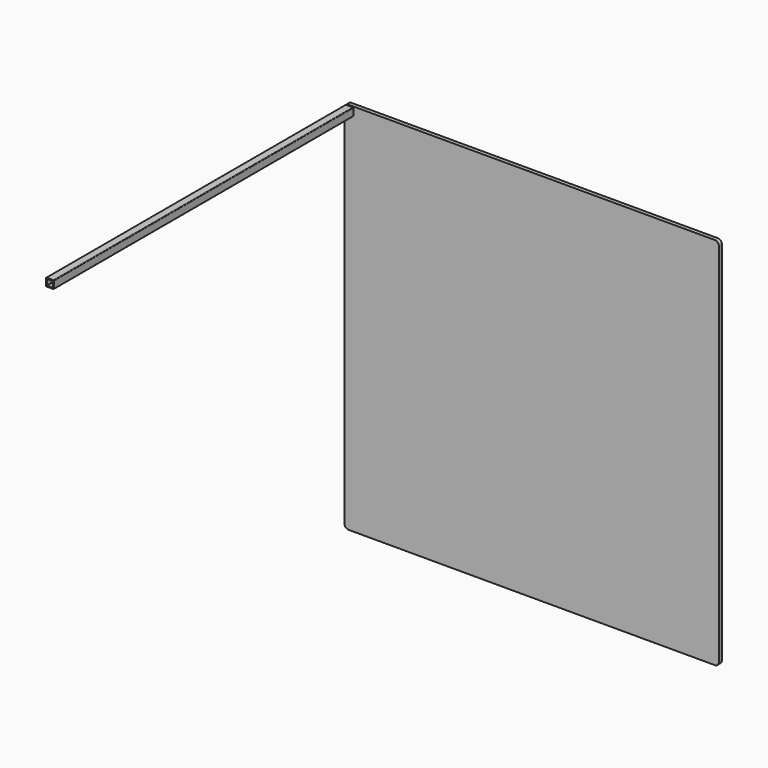
from build123d import *

# Parameters (mm, degrees)
F1_DEPTH = 6.35
F3_DEPTH = 609.6


with BuildPart() as f1:
    # F0 (on Front) → F1 (new body)
    with BuildSketch(Plane.XZ):
        with BuildLine():
            Line((-298.45, -304.8), (298.45, -304.8))
            ThreePointArc((298.45, -304.8), (302.940128, -302.940128), (304.8, -298.45))
            Line((304.8, -298.45), (304.8, 298.45))
            ThreePointArc((304.8, 298.45), (302.940128, 302.940128), (298.45, 304.8))
            Line((298.45, 304.8), (-298.45, 304.8))
            ThreePointArc((-298.45, 304.8), (-302.940128, 302.940128), (-304.8, 298.45))
            Line((-304.8, 298.45), (-304.8, -298.45))
            ThreePointArc((-304.8, -298.45), (-302.940128, -302.940128), (-298.45, -304.8))
        make_face()
    extrude(amount=F1_DEPTH)


with BuildPart() as f3:
    # F2 (on face) → F3 (new body)
    with BuildSketch(Plane.XZ.offset(6.35)):
        with BuildLine():
            Line((-291.3126, 303.1998), (-302.387, 303.1998))
            ThreePointArc((-302.387, 303.1998), (-302.584599, 303.175415), (-302.770342, 303.103723))
            ThreePointArc((-302.770342, 303.103723), (-302.940128, 302.940128), (-303.103723, 302.770342))
            ThreePointArc((-303.103723, 302.770342), (-303.175415, 302.584599), (-303.1998, 302.387))
            Line((-303.1998, 302.387), (-303.1998, 291.3126))
            ThreePointArc((-303.1998, 291.3126), (-302.961736, 290.737864), (-302.387, 290.4998))
            Line((-302.387, 290.4998), (-291.3126, 290.4998))
            ThreePointArc((-291.3126, 290.4998), (-290.737864, 290.737864), (-290.4998, 291.3126))
            Line((-290.4998, 291.3126), (-290.4998, 302.387))
            ThreePointArc((-290.4998, 302.387), (-290.737864, 302.961736), (-291.3126, 303.1998))
        make_face()
        with BuildLine():
            ThreePointArc((-301.5996, 300.7868), (-301.361536, 301.361536), (-300.7868, 301.5996))
            Line((-300.7868, 301.5996), (-292.9128, 301.5996))
            ThreePointArc((-292.9128, 301.5996), (-292.338064, 301.361536), (-292.1, 300.7868))
            Line((-292.1, 300.7868), (-292.1, 292.9128))
            ThreePointArc((-292.1, 292.9128), (-292.338064, 292.338064), (-292.9128, 292.1))
            Line((-292.9128, 292.1), (-300.7868, 292.1))
            ThreePointArc((-300.7868, 292.1), (-301.361536, 292.338064), (-301.5996, 292.9128))
            Line((-301.5996, 292.9128), (-301.5996, 300.7868))
        make_face(mode=Mode.SUBTRACT)
    extrude(amount=F3_DEPTH)


solid = Compound([f1.part, f3.part])
